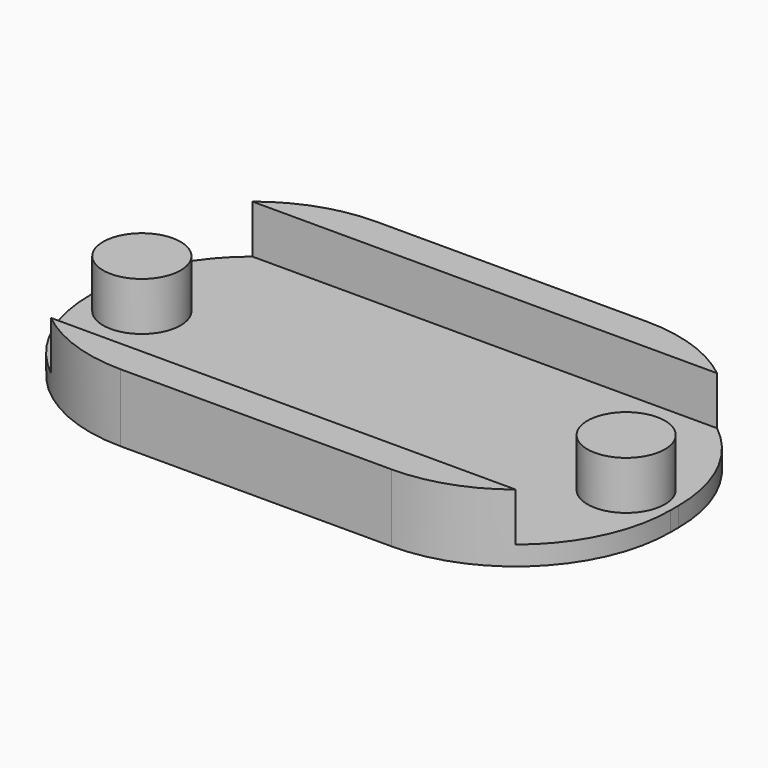
from build123d import *

# Parameters (mm, degrees)
F0_W     = 30
F0_H     = 16.5
F0_R     = 2
F1_DEPTH = 1
F2_DEPTH = 3.5
F3_W     = 30
F3_H     = 1.75
F4_DEPTH = 2.5
F5_R     = 8


with BuildPart() as f1:
    # F0 (on Top) → F1 (new body)
    with BuildSketch(Plane.XY):
        Rectangle(F0_W, F0_H)
        with Locations((-12.5, 0)):
            Circle(F0_R, mode=Mode.SUBTRACT)
        with Locations((12.5, 0)):
            Circle(F0_R, mode=Mode.SUBTRACT)
        with Locations((-12.5, 0)):
            Circle(F0_R)
        with Locations((12.5, 0)):
            Circle(F0_R)
    extrude(amount=F1_DEPTH)

    # F0 (on Top) → F2 (join)
    with BuildSketch(Plane.XY):
        with Locations((-12.5, 0)):
            Circle(F0_R)
        with Locations((12.5, 0)):
            Circle(F0_R)
    extrude(amount=F2_DEPTH)

    # F3 (on face) → F4 (join)
    with BuildSketch(Plane.XY.offset(1)):
        with Locations((0, 7.375)):
            Rectangle(F3_W, F3_H)
        with Locations((0, -7.375)):
            Rectangle(F3_W, F3_H)
    extrude(amount=F4_DEPTH)

    # F5
    f5_edges = [f1.edges().sort_by_distance(p)[0] for p in [
        (-15, -8.25, 1.75),
        (-15, 8.25, 1.75),
        (15, -8.25, 1.75),
        (15, 8.25, 1.75),
    ]]
    fillet(f5_edges, radius=F5_R)


solid = f1.part
